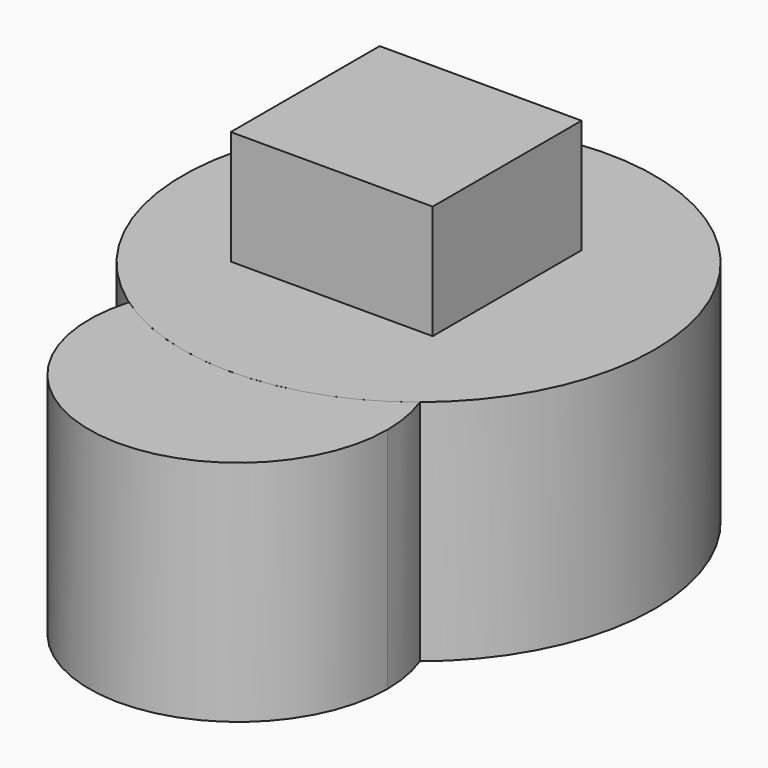
from build123d import *

# Parameters (mm, degrees)
F0_R     = 10.340195
F1_DEPTH = 10
F2_W     = 8.849814
F2_H     = 8.156959
F3_DEPTH = 5
F5_DEPTH = 10


with BuildPart() as f1:
    # F0 (on Top) → F1 (new body)
    with BuildSketch(Plane.XY):
        with Locations((-36.556564, -21.105945)):
            Circle(F0_R)
    extrude(amount=F1_DEPTH)


with BuildPart() as f3:
    # F2 (on face) → F3 (new body)
    with BuildSketch(Plane.XY.offset(10)):
        with Locations((-37.201073, -20.983216)):
            Rectangle(F2_W, F2_H)
    extrude(amount=F3_DEPTH)


with BuildPart() as f5:
    # F4 (on face) → F5 (new body)
    with BuildSketch(Plane(origin=(0, 0, 0), x_dir=(1, 0, 0), z_dir=(0, 0, -1))):
        with BuildLine():
            ThreePointArc((-30.06333, 29.153153), (-29.754594, 30.277921), (-29.650578, 31.439645))
            ThreePointArc((-29.650578, 31.439645), (-37.123024, 37.912286), (-42.463456, 29.592892))
            ThreePointArc((-42.463456, 29.592892), (-36.190106, 31.439645), (-30.06333, 29.153153))
        make_face()
    extrude(amount=-F5_DEPTH)


solid = Compound([f1.part, f3.part, f5.part])
